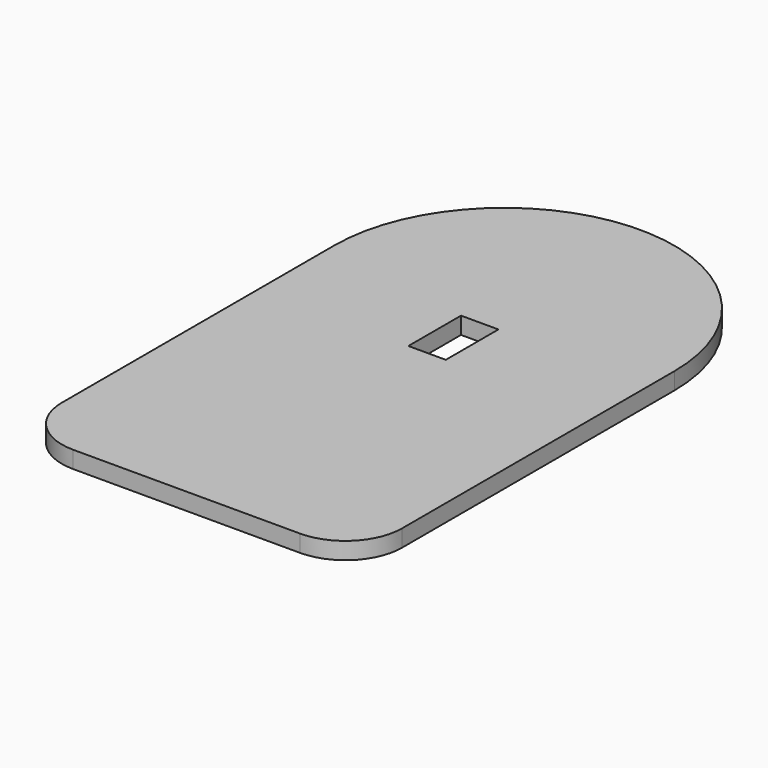
from build123d import *

# Parameters (mm, degrees)
F1_DEPTH = 15
F2_W     = 33
F2_H     = 58
F3_DEPTH = 15.001


with BuildPart() as f1:
    # F0 (on Top) → F1 (new body)
    with BuildSketch(Plane.XY):
        with BuildLine():
            Line((-100, -250), (100, -250))
            ThreePointArc((100, -250), (135.355339, -235.355339), (150, -200))
            Line((150, -200), (150, 100))
            ThreePointArc((150, 100), (0, 250), (-150, 100))
            Line((-150, 100), (-150, -200))
            ThreePointArc((-150, -200), (-135.355339, -235.355339), (-100, -250))
        make_face()
    extrude(amount=F1_DEPTH)

    # F2 (on face) → F3 (cut, through all)
    with BuildSketch(Plane.XY.offset(15)):
        with Locations((0, 44)):
            Rectangle(F2_W, F2_H)
    extrude(amount=-F3_DEPTH, mode=Mode.SUBTRACT)


solid = f1.part
